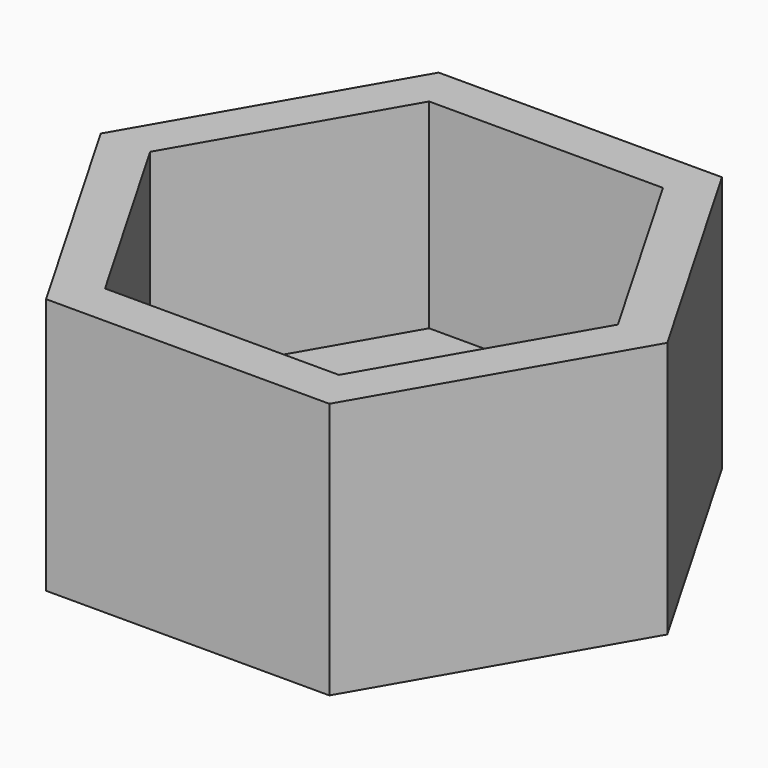
from build123d import *

# Parameters (mm, degrees)
F1_DEPTH = 3.5
F2_R     = 2.25
F3_DEPTH = 1


with BuildPart() as f1:
    # F0 (on Top) → F1 (new body)
    with BuildSketch(Plane.XY):
        Polygon((-2.482606, -4.3), (2.482606, -4.3), (4.965212, 0), (2.482606, 4.3), (-2.482606, 4.3), (-4.965212, 0), align=None)
        Polygon((4.099187, 0), (2.049593, -3.55), (-2.049593, -3.55), (-4.099187, 0), (-2.049593, 3.55), (2.049593, 3.55), align=None, mode=Mode.SUBTRACT)
    extrude(amount=F1_DEPTH)

    # F2 (on face) → F3 (join)
    with BuildSketch(Plane(origin=(0, 0, 0), x_dir=(1, 0, 0), z_dir=(0, 0, -1))):
        Polygon((4.965212, 0), (2.482606, 4.3), (-2.482606, 4.3), (-4.965212, 0), (-2.482606, -4.3), (2.482606, -4.3), align=None)
        Circle(F2_R, mode=Mode.SUBTRACT)
    extrude(amount=F3_DEPTH)


solid = f1.part
